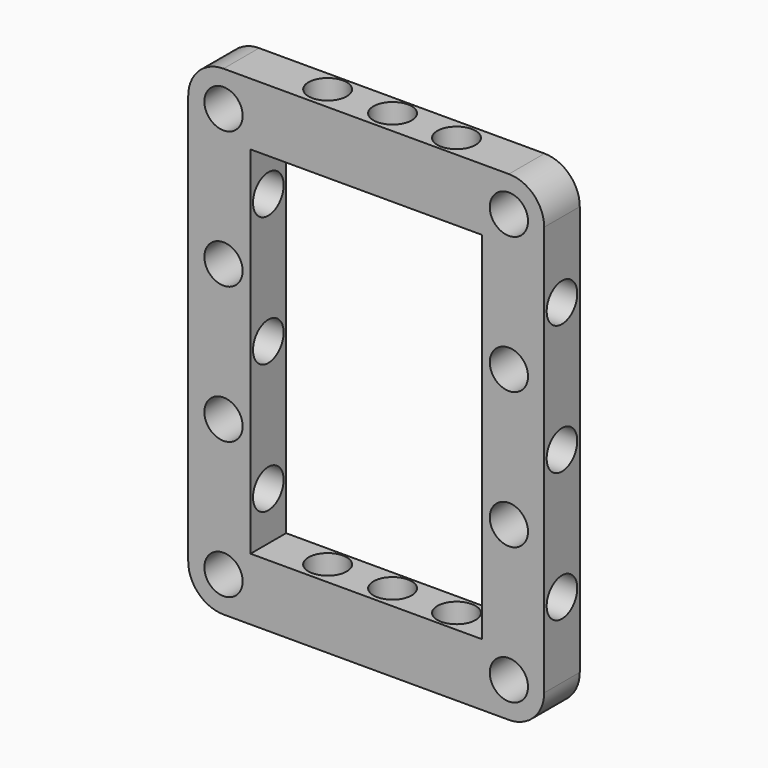
from build123d import *

# Parameters (mm, degrees)
F0_W     = 26
F0_H     = 40
F1_DEPTH = 5
F2_R     = 2.15
F3_DEPTH = 5.001
F4_R     = 2.15
F5_DEPTH = 54.001
F6_R     = 2.15
F7_DEPTH = 40.001


with BuildPart() as f1:
    # F0 (on Front) → F1 (new body)
    with BuildSketch(Plane.XZ):
        with BuildLine():
            ThreePointArc((20, 23.035), (18.838678, 25.838678), (16.035, 27))
            Line((16.035, 27), (-16.035, 27))
            ThreePointArc((-16.035, 27), (-18.838678, 25.838678), (-20, 23.035))
            Line((-20, 23.035), (-20, -23.035))
            ThreePointArc((-20, -23.035), (-18.838678, -25.838678), (-16.035, -27))
            Line((-16.035, -27), (16.035, -27))
            ThreePointArc((16.035, -27), (18.838678, -25.838678), (20, -23.035))
            Line((20, -23.035), (20, 23.035))
        make_face()
        Rectangle(F0_W, F0_H, mode=Mode.SUBTRACT)
    extrude(amount=F1_DEPTH)

    # F2 (on face) → F3 (cut, through all)
    with BuildSketch(Plane.XZ.offset(5)):
        with Locations((-16.035, -23.035)):
            Circle(F2_R)
        with Locations((-16.035, -7.677)):
            Circle(F2_R)
        with Locations((-16.035, 7.679)):
            Circle(F2_R)
        with Locations((-16.035, 23.035)):
            Circle(F2_R)
        with Locations((16.035, 23.035)):
            Circle(F2_R)
        with Locations((16.035, 7.679)):
            Circle(F2_R)
        with Locations((16.035, -7.677)):
            Circle(F2_R)
        with Locations((16.035, -23.035)):
            Circle(F2_R)
    extrude(amount=-F3_DEPTH, mode=Mode.SUBTRACT)

    # F4 (on face) → F5 (cut, through all)
    with BuildSketch(Plane.XY.offset(27)):
        with Locations((8.15, -2.5)):
            Circle(F4_R)
        with Locations((0.851398, -2.357123)):
            Circle(F4_R)
        with Locations((-6.448602, -2.357123)):
            Circle(F4_R)
    extrude(amount=-F5_DEPTH, mode=Mode.SUBTRACT)

    # F6 (on face) → F7 (cut, through all)
    with BuildSketch(Plane(origin=(-20, 0, 0), x_dir=(0, -1, 0), z_dir=(-1, 0, 0))):
        with Locations((2.5, 14.575)):
            Circle(F6_R)
        with Locations((2.5, 0)):
            Circle(F6_R)
        with Locations((2.5, -14.575)):
            Circle(F6_R)
    extrude(amount=-F7_DEPTH, mode=Mode.SUBTRACT)


solid = f1.part
